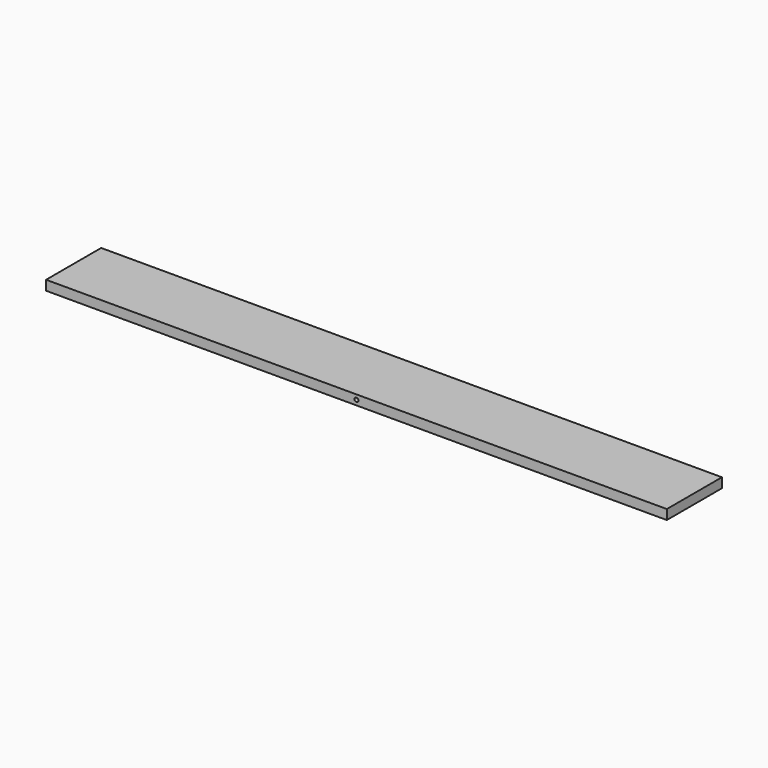
from build123d import *

# Parameters (mm, degrees)
F0_W     = 1280
F0_H     = 142
F1_DEPTH = 10
F3_D     = 8


with BuildPart() as f1:
    # F0 (on Top) → F1 (new body, symmetric)
    with BuildSketch(Plane.XY):
        Rectangle(F0_W, F0_H)
    extrude(amount=F1_DEPTH, both=True)

    # F3 (through all)
    with Locations(Plane.XZ.offset(71)):
        with Locations((0, 0)):
            Hole(F3_D / 2)


solid = f1.part
